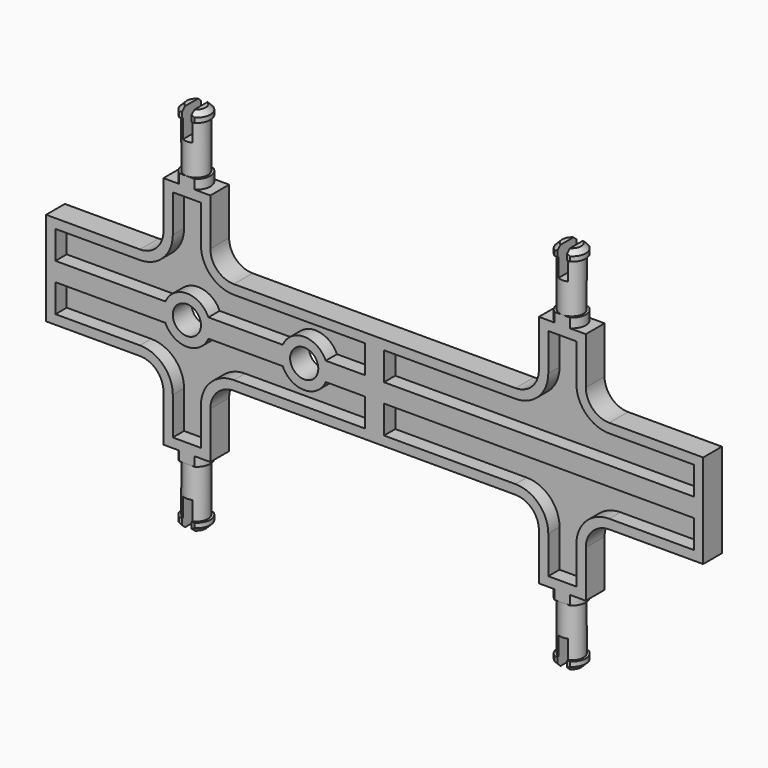
from build123d import *

# Parameters (mm, degrees)
F1_DEPTH  = 2.5
F2_T      = -2
F5_SIZE   = 1
F6_W      = 75
F6_H      = 5
F7_DEPTH  = 39.501
F8_W      = 2
F8_H      = 5.8988734534
F9_DEPTH  = 6
F12_R     = 5
F13_DEPTH = 5
F15_D     = 6


with BuildPart() as f1:
    # F0 (on Front) → F1 (new body, symmetric)
    with BuildSketch(Plane.XZ):
        with BuildLine():
            Line((0, 10), (0, 0))
            Line((0, 0), (70, 0))
            Line((70, 0), (70, 10))
            Line((70, 10), (50, 10))
            ThreePointArc((50, 10), (46.4644660941, 11.4644660941), (45, 15))
            Line((45, 15), (45, 25))
            Line((45, 25), (35, 25))
            Line((35, 25), (35, 15))
            ThreePointArc((35, 15), (33.5355339059, 11.4644660941), (30, 10))
            Line((30, 10), (8.4090904464, 10))
            Line((8.4090904464, 10), (0, 10))
        make_face()
    extrude(amount=F1_DEPTH, both=True)

    # F2
    f2_openings = [f1.faces().sort_by_distance(p)[0] for p in [
        (35.933685, -2.5, 7.254637),
    ]]
    offset(amount=F2_T, openings=f2_openings)

    # F3 (on Front) → F4 (revolve)
    with BuildSketch(Plane.XZ):
        Polygon((37, 25), (40, 25), (40, 39.5), (37, 39.5), (37, 37.5), (37.5, 37.5), (37.5, 27), (37, 27), align=None)
    revolve(axis=Axis((40, 0, 32.25), (0, 0, -1)))

    # F5
    f5_edges = [f1.edges().sort_by_distance(p)[0] for p in [
        (43, 0, 39.5),
    ]]
    chamfer(f5_edges, length=F5_SIZE)

    # F6 (on face) → F7 (intersect, through all)
    with BuildSketch(Plane.XY.offset(39.5)):
        with Locations((35.0839576957, 0)):
            Rectangle(F6_W, F6_H)
    extrude(amount=-F7_DEPTH, mode=Mode.INTERSECT)

    # F8 (on face) → F9 (cut)
    with BuildSketch(Plane.XY.offset(39.5)):
        with Locations((40, 0)):
            Rectangle(F8_W, F8_H)
    extrude(amount=-F9_DEPTH, mode=Mode.SUBTRACT)

    # F10: F1 across plane


with BuildPart() as f1_1:
    add(f1.part)
    add(f1.part.mirror(Plane.XY))

    # F11: F1 across plane


with BuildPart() as f1_2:
    add(f1_1.part)
    add(f1_1.part.mirror(Plane.YZ))

    # F12 (on face) → F13 (join, through all)
    with BuildSketch(Plane.XZ.offset(2.5)):
        with Locations((-40, 0)):
            Circle(F12_R)
        with Locations((-15, 0)):
            Circle(F12_R)
    extrude(amount=-F13_DEPTH)

    # F15 (through all)
    with Locations(Plane.XZ.offset(2.5)):
        with Locations((-40, 0), (-15, 0)):
            Hole(F15_D / 2)


solid = f1_2.part
